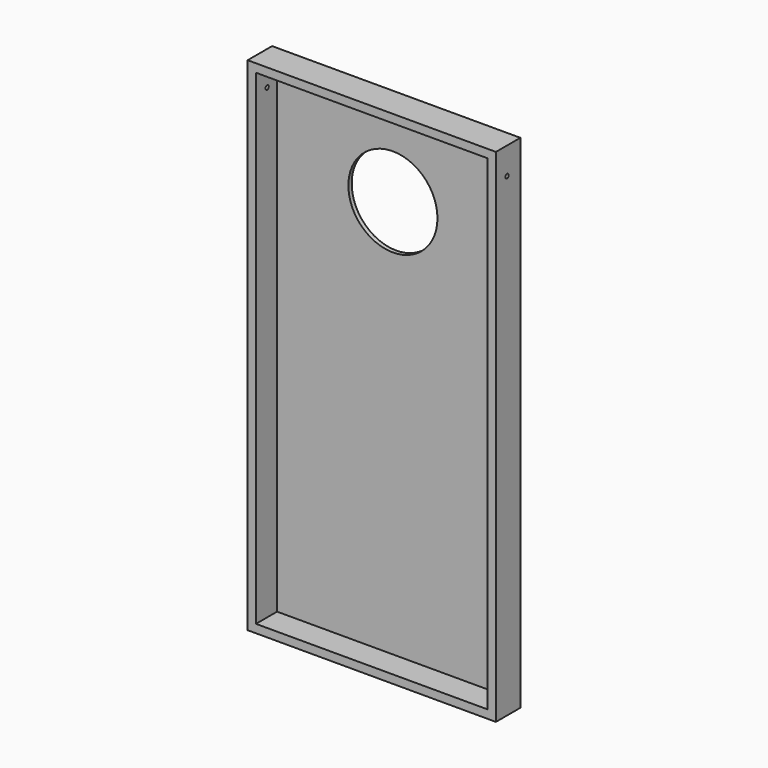
from build123d import *

# Parameters (mm, degrees)
F0_W     = 596.9
F0_H     = 1206.5
F0_W_2   = 556.9
F0_H_2   = 1166.5
F1_DEPTH = 63.5
F2_W     = 596.9
F2_H     = 1206.5
F2_R     = 107.095768
F3_DEPTH = 10
F4_R     = 5
F5_DEPTH = 596.9


with BuildPart() as f1:
    # F0 (on Front) → F1 (new body)
    with BuildSketch(Plane.XZ):
        with Locations((298.45, -603.25)):
            Rectangle(F0_W, F0_H)
        with Locations((298.45, -603.25)):
            Rectangle(F0_W_2, F0_H_2, mode=Mode.SUBTRACT)
    extrude(amount=F1_DEPTH)

    # F2 (on Front) → F3 (join)
    with BuildSketch(Plane.XZ):
        with Locations((298.45, -603.25)):
            Rectangle(F2_W, F2_H)
        with Locations((298.45, -228.6)):
            Circle(F2_R, mode=Mode.SUBTRACT)
    extrude(amount=-F3_DEPTH)

    # F4 (on Right) → F5 (cut, through all)
    with BuildSketch(Plane.YZ):
        with Locations((-30, -65)):
            Circle(F4_R)
    extrude(amount=F5_DEPTH, mode=Mode.SUBTRACT)


solid = f1.part
